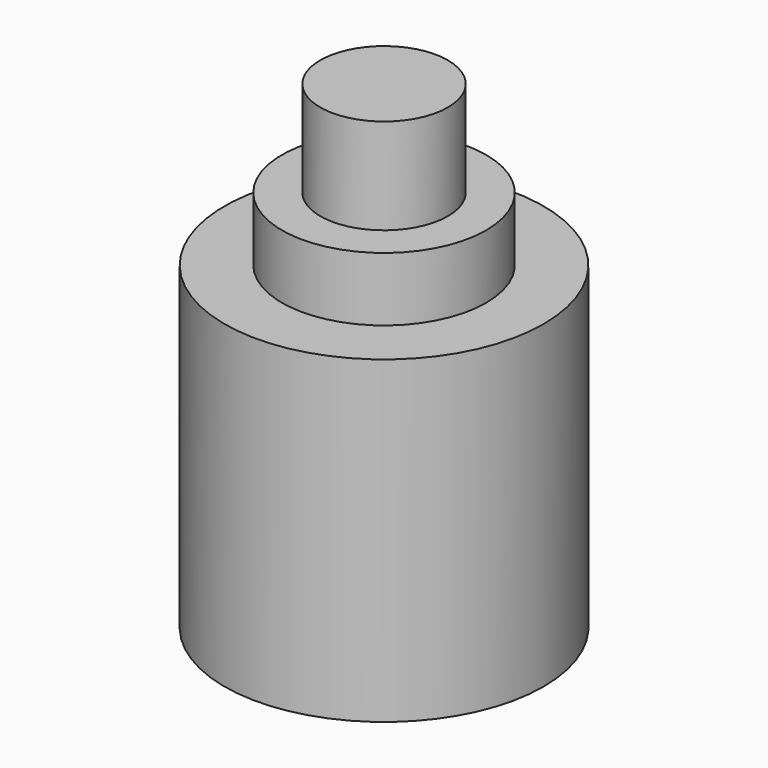
from build123d import *

# Parameters (mm, degrees)
F2_T = -1


with BuildPart() as f1:
    # F0 (on Front) → F1 (revolve)
    with BuildSketch(Plane.XZ):
        Polygon((0, 75), (0, 0), (25, 0), (25, 50), (16, 50), (16, 60), (10, 60), (10, 75), align=None)
    revolve(axis=Axis((0, 0, 37.5), (0, 0, 1)))

    # F2
    f2_openings = [f1.faces().sort_by_distance(p)[0] for p in [
        (0, 0, 0),
    ]]
    offset(amount=F2_T, openings=f2_openings, kind=Kind.INTERSECTION)


solid = f1.part
